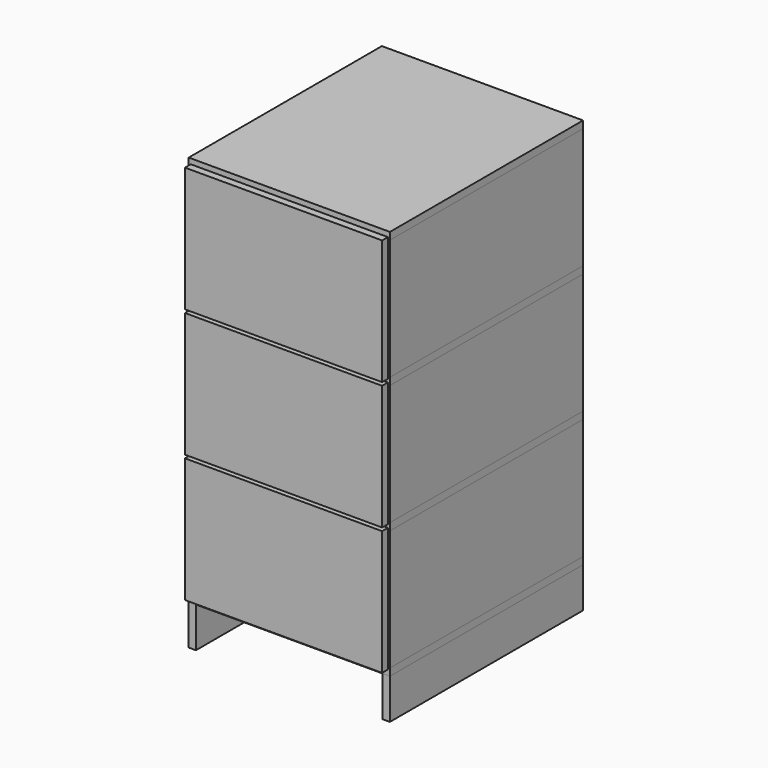
from build123d import *

# Parameters (mm, degrees)
BOX006_W     = 18
BOX006_H     = 600
BOX006_DEPTH = 100
BOX007_W     = 18
BOX007_H     = 600
BOX007_DEPTH = 300
BOX008_W     = 18
BOX008_H     = 600
BOX008_DEPTH = 300
BOX009_W     = 18
BOX009_H     = 600
BOX009_DEPTH = 300
BOX010_W     = 18
BOX010_H     = 600
BOX010_DEPTH = 100
BOX011_W     = 18
BOX011_H     = 600
BOX011_DEPTH = 300
BOX012_W     = 18
BOX012_H     = 600
BOX012_DEPTH = 300
BOX013_W     = 18
BOX013_H     = 600
BOX013_DEPTH = 300
BOX018_W     = 464
BOX018_H     = 18
BOX018_DEPTH = 300
BOX019_W     = 464
BOX019_H     = 18
BOX019_DEPTH = 300
BOX020_W     = 464
BOX020_H     = 18
BOX020_DEPTH = 300
BOX023_W     = 500
BOX023_H     = 600
BOX023_DEPTH = 18
BOX024_W     = 500
BOX024_H     = 600
BOX024_DEPTH = 18
BOX025_W     = 500
BOX025_H     = 600
BOX025_DEPTH = 18
BOX026_W     = 500
BOX026_H     = 600
BOX026_DEPTH = 18
BOX027_W     = 490
BOX027_H     = 18
BOX027_DEPTH = 310
BOX028_W     = 490
BOX028_H     = 18
BOX028_DEPTH = 310
BOX029_W     = 490
BOX029_H     = 18
BOX029_DEPTH = 310


with BuildPart() as foot_l:
    # Box006 → Box006 (new body)
    with BuildSketch(Plane.XY):
        with Locations((9, 300)):
            Rectangle(BOX006_W, BOX006_H)
    extrude(amount=BOX006_DEPTH)


with BuildPart() as side_l1:
    # Box007 → Box007 (new body)
    with BuildSketch(Plane.XY.offset(118)):
        with Locations((9, 300)):
            Rectangle(BOX007_W, BOX007_H)
    extrude(amount=BOX007_DEPTH)


with BuildPart() as side_l2:
    # Box008 → Box008 (new body)
    with BuildSketch(Plane.XY.offset(436)):
        with Locations((9, 300)):
            Rectangle(BOX008_W, BOX008_H)
    extrude(amount=BOX008_DEPTH)


with BuildPart() as side_l3:
    # Box009 → Box009 (new body)
    with BuildSketch(Plane.XY.offset(754)):
        with Locations((9, 300)):
            Rectangle(BOX009_W, BOX009_H)
    extrude(amount=BOX009_DEPTH)


with BuildPart() as foot_r:
    # Box010 → Box010 (new body)
    with BuildSketch(Plane(origin=(482, 0, 0), x_dir=(1, 0, 0), z_dir=(0, 0, 1))):
        with Locations((9, 300)):
            Rectangle(BOX010_W, BOX010_H)
    extrude(amount=BOX010_DEPTH)


with BuildPart() as side_r1:
    # Box011 → Box011 (new body)
    with BuildSketch(Plane(origin=(482, 0, 118), x_dir=(1, 0, 0), z_dir=(0, 0, 1))):
        with Locations((9, 300)):
            Rectangle(BOX011_W, BOX011_H)
    extrude(amount=BOX011_DEPTH)


with BuildPart() as side_r2:
    # Box012 → Box012 (new body)
    with BuildSketch(Plane(origin=(482, 0, 436), x_dir=(1, 0, 0), z_dir=(0, 0, 1))):
        with Locations((9, 300)):
            Rectangle(BOX012_W, BOX012_H)
    extrude(amount=BOX012_DEPTH)


with BuildPart() as side_r3:
    # Box013 → Box013 (new body)
    with BuildSketch(Plane(origin=(482, 0, 754), x_dir=(1, 0, 0), z_dir=(0, 0, 1))):
        with Locations((9, 300)):
            Rectangle(BOX013_W, BOX013_H)
    extrude(amount=BOX013_DEPTH)


with BuildPart() as box018:
    # Box018 → Box018 (new body)
    with BuildSketch(Plane(origin=(18, 582, 118), x_dir=(1, 0, 0), z_dir=(0, 0, 1))):
        with Locations((232, 9)):
            Rectangle(BOX018_W, BOX018_H)
    extrude(amount=BOX018_DEPTH)


with BuildPart() as box019:
    # Box019 → Box019 (new body)
    with BuildSketch(Plane(origin=(18, 582, 436), x_dir=(1, 0, 0), z_dir=(0, 0, 1))):
        with Locations((232, 9)):
            Rectangle(BOX019_W, BOX019_H)
    extrude(amount=BOX019_DEPTH)


with BuildPart() as box020:
    # Box020 → Box020 (new body)
    with BuildSketch(Plane(origin=(18, 582, 754), x_dir=(1, 0, 0), z_dir=(0, 0, 1))):
        with Locations((232, 9)):
            Rectangle(BOX020_W, BOX020_H)
    extrude(amount=BOX020_DEPTH)


with BuildPart() as box023:
    # Box023 → Box023 (new body)
    with BuildSketch(Plane.XY.offset(100)):
        with Locations((250, 300)):
            Rectangle(BOX023_W, BOX023_H)
    extrude(amount=BOX023_DEPTH)


with BuildPart() as box024:
    # Box024 → Box024 (new body)
    with BuildSketch(Plane.XY.offset(418)):
        with Locations((250, 300)):
            Rectangle(BOX024_W, BOX024_H)
    extrude(amount=BOX024_DEPTH)


with BuildPart() as box025:
    # Box025 → Box025 (new body)
    with BuildSketch(Plane.XY.offset(736)):
        with Locations((250, 300)):
            Rectangle(BOX025_W, BOX025_H)
    extrude(amount=BOX025_DEPTH)


with BuildPart() as box026:
    # Box026 → Box026 (new body)
    with BuildSketch(Plane.XY.offset(1054)):
        with Locations((250, 300)):
            Rectangle(BOX026_W, BOX026_H)
    extrude(amount=BOX026_DEPTH)


with BuildPart() as box027:
    # Box027 → Box027 (new body)
    with BuildSketch(Plane(origin=(5, -18, 113), x_dir=(1, 0, 0), z_dir=(0, 0, 1))):
        with Locations((245, 9)):
            Rectangle(BOX027_W, BOX027_H)
    extrude(amount=BOX027_DEPTH)


with BuildPart() as box028:
    # Box028 → Box028 (new body)
    with BuildSketch(Plane(origin=(5, -18, 431), x_dir=(1, 0, 0), z_dir=(0, 0, 1))):
        with Locations((245, 9)):
            Rectangle(BOX028_W, BOX028_H)
    extrude(amount=BOX028_DEPTH)


with BuildPart() as box029:
    # Box029 → Box029 (new body)
    with BuildSketch(Plane(origin=(5, -18, 749), x_dir=(1, 0, 0), z_dir=(0, 0, 1))):
        with Locations((245, 9)):
            Rectangle(BOX029_W, BOX029_H)
    extrude(amount=BOX029_DEPTH)


solid = Compound([foot_l.part, side_l1.part, side_l2.part, side_l3.part, foot_r.part, side_r1.part, side_r2.part, side_r3.part, box018.part, box019.part, box020.part, box023.part, box024.part, box025.part, box026.part, box027.part, box028.part, box029.part])
